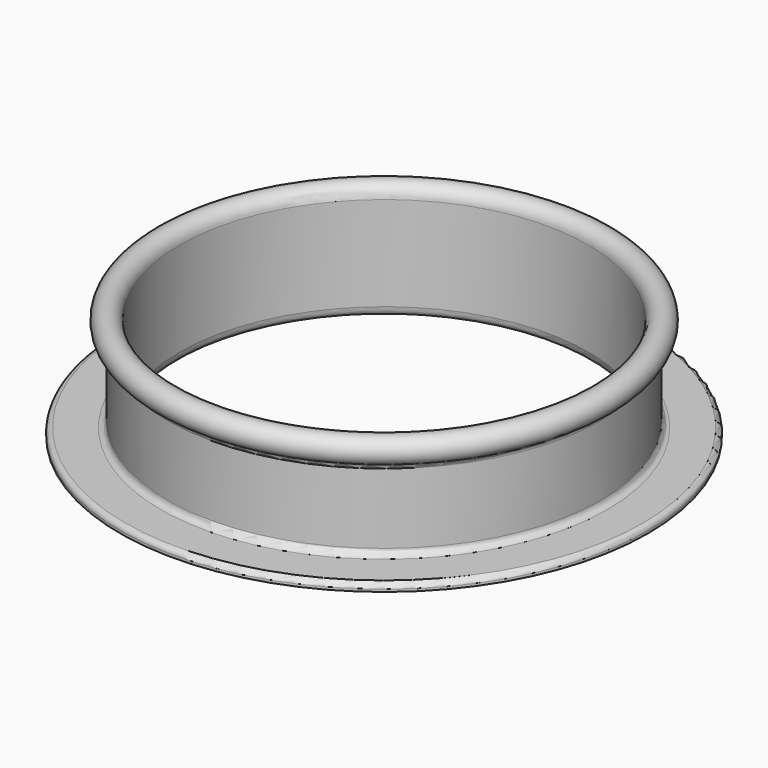
from build123d import *

# Parameters (mm, degrees)
F0_R     = 42
F0_R_2   = 36.5
F1_DEPTH = 2
F4_W     = 134.360425
F4_H     = 153.034464
F5_DEPTH = 0.8
F6_R     = 0.8


with BuildPart() as f1:
    # F0 (on Top) → F1 (new body)
    with BuildSketch(Plane.XY):
        Circle(F0_R)
        Circle(F0_R_2, mode=Mode.SUBTRACT)
    extrude(amount=F1_DEPTH)

    # F2 (on Front) → F3 (revolve)
    with BuildSketch(Plane.XZ):
        with BuildLine():
            Line((36.5, 0), (36.5, 2))
            Line((36.5, 2), (35.5, 2))
            ThreePointArc((35.5, 2), (34.792893, 2.292893), (34.5, 3))
            Line((34.5, 3), (34.5, 14.171573))
            ThreePointArc((34.5, 14.171573), (34.683503, 14.748923), (35.166667, 15.114382))
            ThreePointArc((35.166667, 15.114382), (35.654701, 18.632993), (32.5, 17))
            Line((32.5, 17), (32.5, 2))
            ThreePointArc((32.5, 2), (33.085786, 0.585786), (34.5, 0))
            Line((34.5, 0), (36.5, 0))
        make_face()
    revolve(axis=Axis((0, 0, 63.554913), (0, 0, 1)))

    # F4 (on Top) → F5 (cut)
    with BuildSketch(Plane.XY):
        with Locations((2.438757, -1.89399)):
            Rectangle(F4_W, F4_H)
    extrude(amount=F5_DEPTH, mode=Mode.SUBTRACT)

    # F6
    f6_edges = [f1.edges().sort_by_distance(p)[0] for p in [
        (-42, 0, 2),
    ]]
    fillet(f6_edges, radius=F6_R)


solid = f1.part
